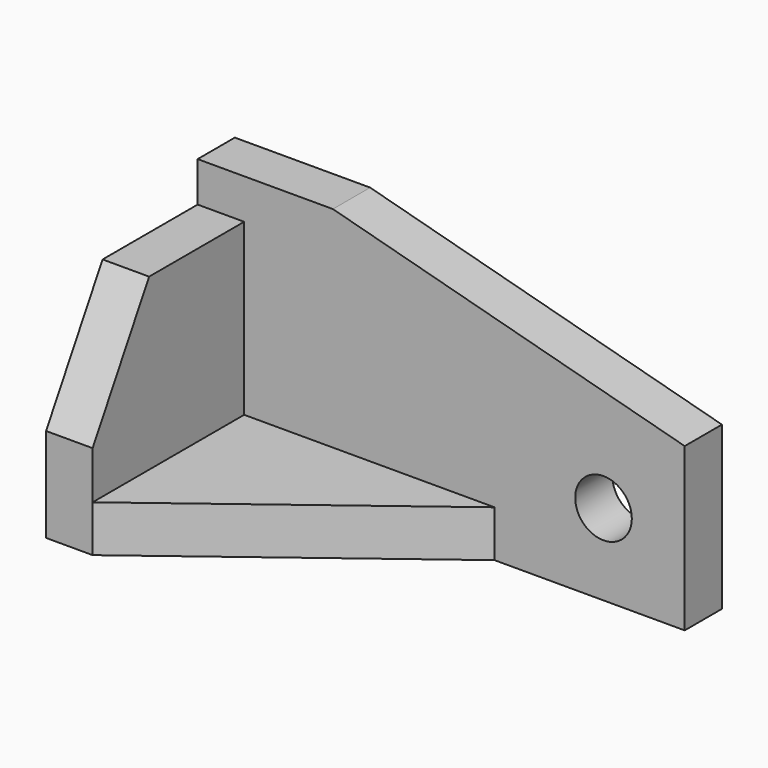
from build123d import *

# Parameters (mm, degrees)
F1_DEPTH = 60.198
F0_W     = 10.922
F0_H     = 16.735694
F0_H_2   = 27.714306
F2_DEPTH = 50.8
F3_DEPTH = 10.922
F4_R     = 6.642507
F5_DEPTH = 10.923
F6_SIZE2 = 16.571107
F6_SIZE  = 28.702
F7_SIZE2 = 22.119206
F7_SIZE  = 82.55


with BuildPart() as f1:
    # F0 (on Top) → F1 (new body)
    with BuildSketch(Plane.XY):
        Polygon((-8.589479, 19.945886), (-40.339479, 19.945886), (-40.339479, 9.023886), (-29.417479, 9.023886), (-8.589479, 9.023886), align=None)
        Polygon((73.960521, 19.945886), (-8.589479, 19.945886), (-8.589479, 9.023886), (29.338112, 9.023886), (73.960521, 9.023886), align=None)
    extrude(amount=F1_DEPTH)

    # F0 (on Top) → F2 (join)
    with BuildSketch(Plane.XY):
        with Locations((-34.878479, 0.656039)):
            Rectangle(F0_W, F0_H)
        with Locations((-34.878479, -21.568961)):
            Rectangle(F0_W, F0_H_2)
    extrude(amount=F2_DEPTH)

    # F0 (on Top) → F3 (join)
    with BuildSketch(Plane.XY):
        Polygon((29.338112, 9.023886), (-8.589479, 9.023886), (-29.417479, 9.023886), (-29.417479, -7.711808), (-29.417479, -35.426114), align=None)
    extrude(amount=F3_DEPTH)

    # F4 (on face) → F5 (cut, through all)
    with BuildSketch(Plane.XZ.offset(-9.023886)):
        with Locations((54.910521, 19.05)):
            Circle(F4_R)
    extrude(amount=-F5_DEPTH, mode=Mode.SUBTRACT)

    # F6
    f6_edges = [f1.edges().sort_by_distance(p)[0] for p in [
        (-34.878479, -35.426114, 50.8),
    ]]
    chamfer(f6_edges, length=F6_SIZE, length2=F6_SIZE2)

    # F7
    f7_edges = [f1.edges().sort_by_distance(p)[0] for p in [
        (73.960521, 14.484886, 60.198),
    ]]
    chamfer(f7_edges, length=F7_SIZE, length2=F7_SIZE2)


solid = f1.part
